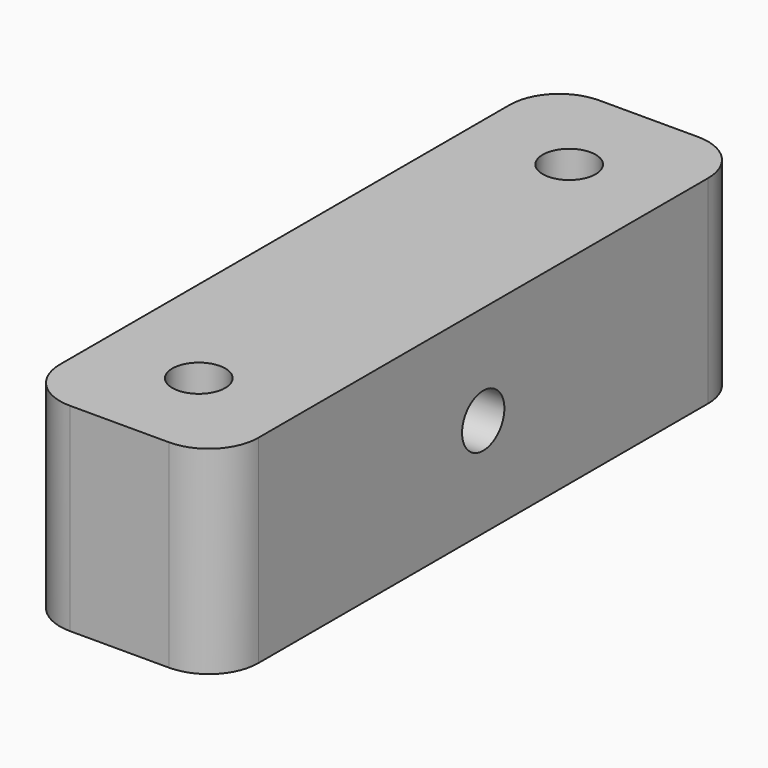
from build123d import *

# Parameters (mm, degrees)
SKETCH_R          = 1.6
PAD_DEPTH         = 6
SKETCH001_R       = 1.6
POCKET_DEPTH      = 6.001
POCKET_DEPTH_BACK = -6.001
FILLET_R          = 3


with BuildPart() as part:
    # Sketch → Pad (new body, symmetric)
    with BuildSketch(Plane.XY):
        Polygon((-6, 20), (0, 20), (6, 20), (6, 0), (6, -20), (0, -20), (-6, -20), (-6, 0), align=None)
        with Locations((0, 14)):
            Circle(SKETCH_R, mode=Mode.SUBTRACT)
        with Locations((0, -14)):
            Circle(SKETCH_R, mode=Mode.SUBTRACT)
    extrude(amount=PAD_DEPTH, both=True)

    # Sketch001 → Pocket (cut, two sides)
    with BuildSketch(Plane.YZ) as pocket_sk:
        Circle(SKETCH001_R)
    extrude(amount=-POCKET_DEPTH, mode=Mode.SUBTRACT)
    extrude(pocket_sk.sketch, amount=-POCKET_DEPTH_BACK, mode=Mode.SUBTRACT)

    # Fillet
    fillet_edges = [part.edges().sort_by_distance(p)[0] for p in [
        (6, -20, 0),
        (-6, -20, 0),
        (-6, 20, 0),
        (6, 20, 0),
    ]]
    fillet(fillet_edges, radius=FILLET_R)


solid = part.part
